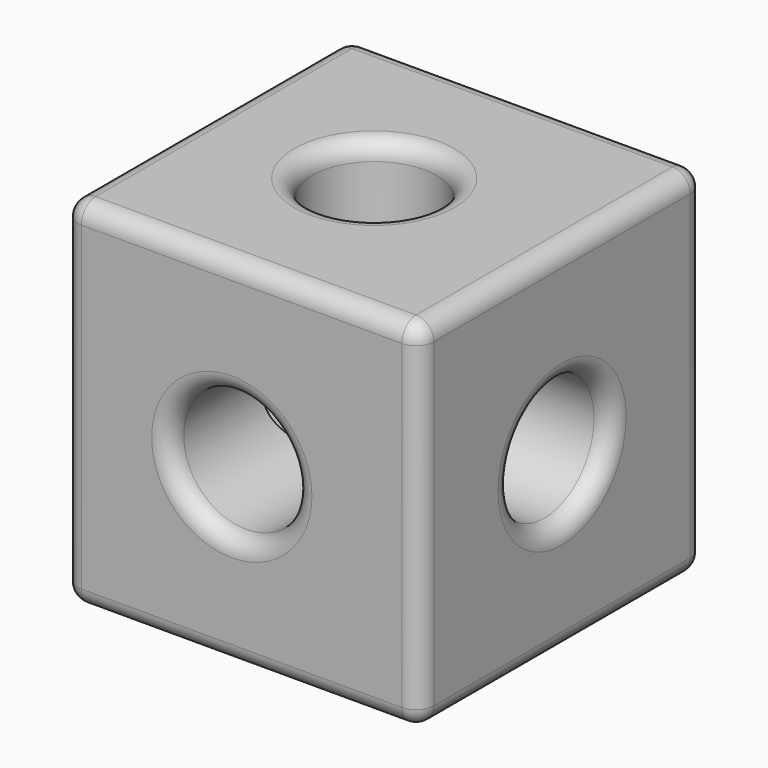
from build123d import *

# Parameters (mm, degrees)
F0_W     = 100
F0_H     = 100
F0_R     = 17.5
F1_DEPTH = 50
F2_R     = 17.5
F3_DEPTH = 100
F4_R     = 17.5
F5_DEPTH = 101
F6_R     = 5


with BuildPart() as f1:
    # F0 (on Front) → F1 (new body, symmetric)
    with BuildSketch(Plane.XZ):
        with Locations((2.7515795082, 1.0403425059)):
            Rectangle(F0_W, F0_H)
        Circle(F0_R, mode=Mode.SUBTRACT)
    extrude(amount=F1_DEPTH, both=True)

    # F2 (on face) → F3 (cut, through all)
    with BuildSketch(Plane(origin=(-47.2484204918, 0, 0), x_dir=(0, -1, 0), z_dir=(-1, 0, 0))):
        Circle(F2_R)
    extrude(amount=-F3_DEPTH, mode=Mode.SUBTRACT)

    # F4 (on face) → F5 (cut, symmetric)
    with BuildSketch(Plane(origin=(0, 0, -48.9596574941), x_dir=(1, 0, 0), z_dir=(0, 0, -1))):
        Circle(F4_R)
    extrude(amount=F5_DEPTH, both=True, mode=Mode.SUBTRACT)

    # F6
    f6_edges = [f1.edges().sort_by_distance(p)[0] for p in [
        (52.75158, 0, 51.040343),
        (52.75158, -50, 1.040343),
        (2.75158, -50, 51.040343),
        (-47.24842, 0, 51.040343),
        (2.75158, 50, 51.040343),
        (-47.24842, -50, 1.040343),
        (2.75158, -50, -48.959657),
        (52.75158, 0, -48.959657),
        (52.75158, 50, 1.040343),
        (-47.24842, 50, 1.040343),
        (2.75158, 50, -48.959657),
        (-47.24842, 0, -48.959657),
        (-17.5, 50, 0),
        (52.75158, 17.5, 0),
        (-17.5, 0, 51.040343),
        (-17.5, 0, -48.959657),
        (-47.24842, 17.5, 0),
        (-17.5, -50, 0),
    ]]
    fillet(f6_edges, radius=F6_R)


solid = f1.part
